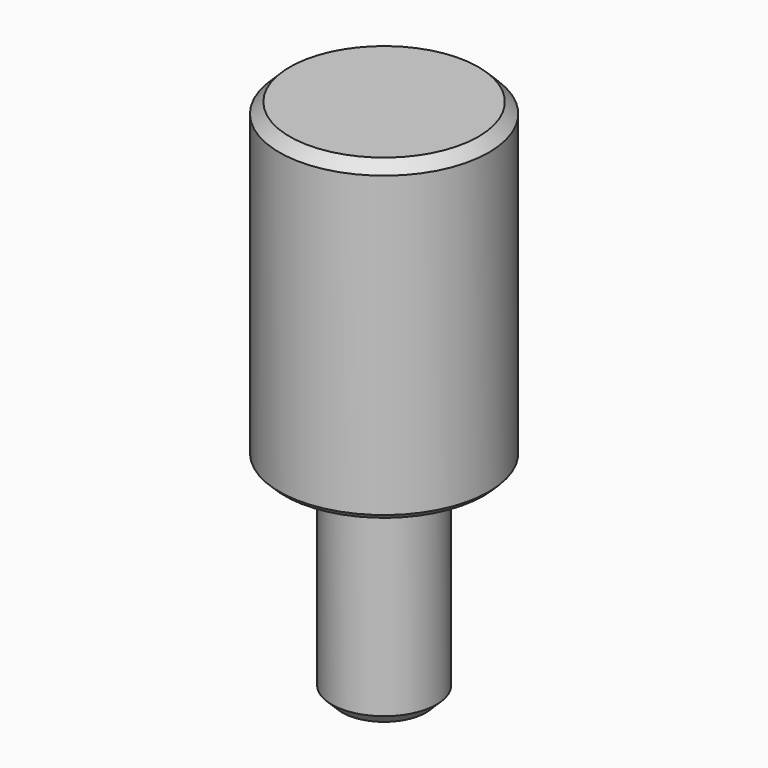
from build123d import *

# Parameters (mm, degrees)
F2_SIZE = 1
F3_SIZE = 0.5


with BuildPart() as f1:
    # F0 (on Front) → F1 (revolve)
    with BuildSketch(Plane.XZ):
        Polygon((10, 30), (0, 30), (0, -20), (5, -20), (5, 0), (10, 0), align=None)
    revolve(axis=Axis((0, 0, 5), (0, 0, -1)))

    # F2
    f2_edges = [f1.edges().sort_by_distance(p)[0] for p in [
        (-10, 0, 30),
        (-5, 0, -20),
    ]]
    chamfer(f2_edges, length=F2_SIZE)

    # F3
    f3_edges = [f1.edges().sort_by_distance(p)[0] for p in [
        (-10, 0, 0),
    ]]
    chamfer(f3_edges, length=F3_SIZE)


solid = f1.part
